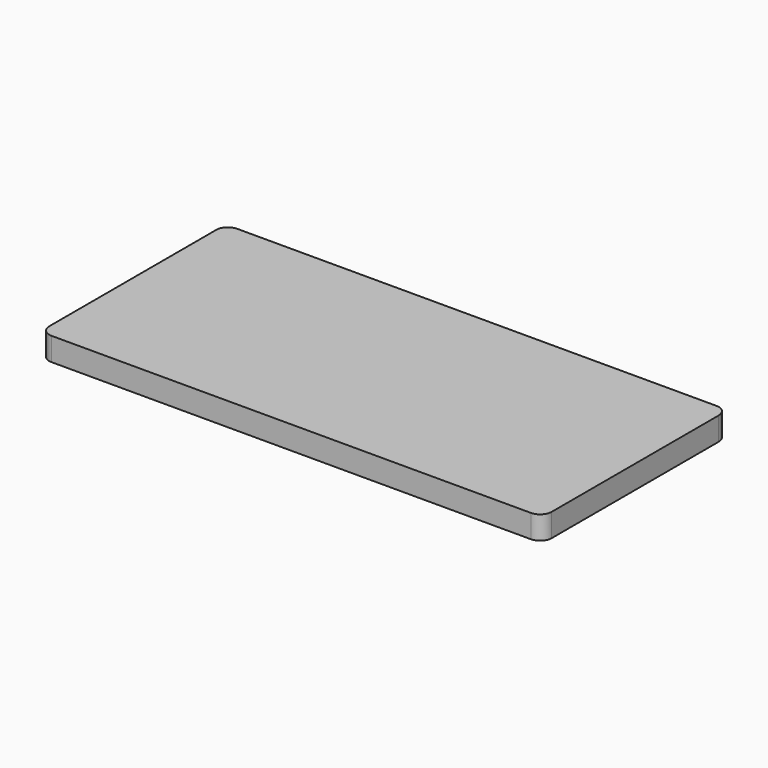
from build123d import *

# Parameters (mm, degrees)
PAD_DEPTH = 3


with BuildPart() as part:
    # Sketch → Pad (new body)
    with BuildSketch(Plane.XY):
        with BuildLine():
            Line((0, 30), (62, 30))
            ThreePointArc((63.5, 28.5), (63.06066, 29.56066), (62, 30))
            Line((63.5, 28.5), (63.5, 1.5))
            ThreePointArc((62, 0), (63.06066, 0.43934), (63.5, 1.5))
            Line((62, 0), (0, 0))
            ThreePointArc((-1.5, 1.5), (-1.06066, 0.43934), (0, 0))
            Line((-1.5, 1.5), (-1.5, 28.5))
            ThreePointArc((0, 30), (-1.06066, 29.56066), (-1.5, 28.5))
        make_face()
    extrude(amount=PAD_DEPTH)


solid = part.part
